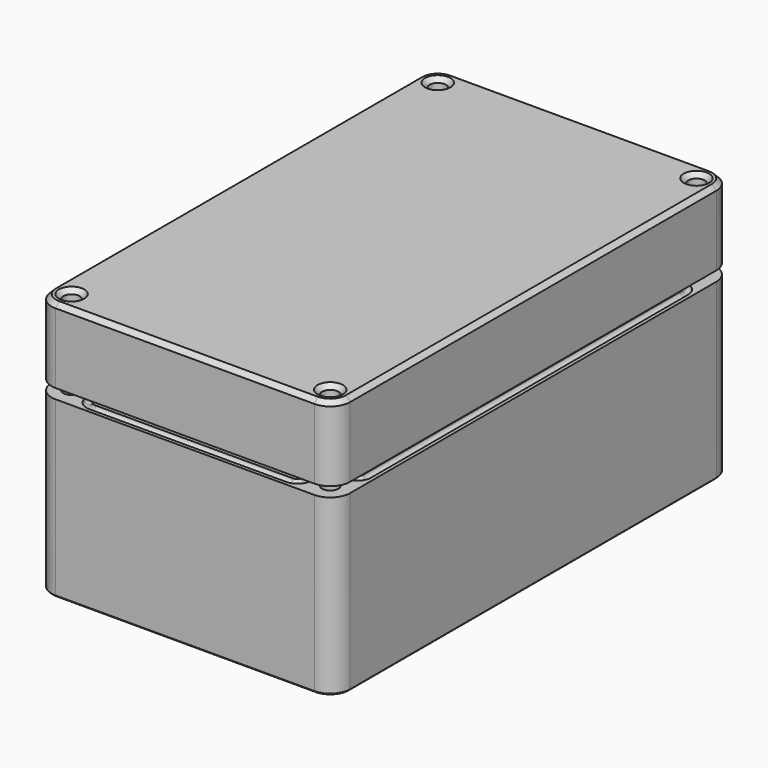
from build123d import *

# Parameters (mm, degrees)
SKETCH_R                = 1.65
PAD_DEPTH               = 35
POCKET_DEPTH            = 32
SKETCH004_R             = 0.8
POCKET002_DEPTH         = 32
SKETCH010_R             = 2.5
SKETCH010_R_2           = 1
PAD002_DEPTH            = 3
FILLET_R                = 0.6
CHAMFER001_SIZE         = 0.3
SKETCH005_R             = 1.65
PAD001_DEPTH            = 15
POCKET001_DEPTH         = 12
SKETCH008_R             = 0.8
CHAMFER_SIZE            = 0.9
BODY001_PLACEMENT_ANGLE = 180


with BuildPart() as bottom:
    # Sketch → Pad (new body)
    with BuildSketch(Plane.XY):
        with BuildLine():
            Line((-30, 46), (-30, -46))
            ThreePointArc((-30, -46), (-28.828427, -48.828427), (-26, -50))
            Line((-26, -50), (26, -50))
            ThreePointArc((26, -50), (28.828427, -48.828427), (30, -46))
            Line((30, 46), (30, -46))
            ThreePointArc((30, 46), (28.828427, 48.828427), (26, 50))
            Line((-26, 50), (26, 50))
            ThreePointArc((-26, 50), (-28.828427, 48.828427), (-30, 46))
        make_face()
        with Locations((-26, 46)):
            Circle(SKETCH_R, mode=Mode.SUBTRACT)
        with Locations((26, -46)):
            Circle(SKETCH_R, mode=Mode.SUBTRACT)
        with Locations((-26, -46)):
            Circle(SKETCH_R, mode=Mode.SUBTRACT)
        with Locations((26, 46)):
            Circle(SKETCH_R, mode=Mode.SUBTRACT)
    extrude(amount=PAD_DEPTH)

    # Sketch001 (on Face14 of Pad) → Pocket (cut)
    with BuildSketch(Plane.XY.offset(35)):
        with BuildLine():
            ThreePointArc((-23, 39), (-20.171573, 40.171573), (-19, 43))
            Line((-19, 43), (-19, 47))
            Line((-19, 47), (19, 47))
            Line((19, 43), (19, 47))
            ThreePointArc((19, 43), (20.171573, 40.171573), (23, 39))
            Line((23, 39), (27, 39))
            Line((27, -39), (27, 39))
            Line((23, -39), (27, -39))
            ThreePointArc((23, -39), (20.171573, -40.171573), (19, -43))
            Line((19, -47), (19, -43))
            Line((-19, -47), (19, -47))
            Line((-19, -43), (-19, -47))
            ThreePointArc((-19, -43), (-20.171573, -40.171573), (-23, -39))
            Line((-23, -39), (-27, -39))
            Line((-27, 39), (-27, -39))
            Line((-23, 39), (-27, 39))
        make_face()
    extrude(amount=-POCKET_DEPTH, mode=Mode.SUBTRACT)

    # SubtractivePipe: sweep along a path in Sketch003
    with BuildLine(Plane.XY) as subtractivepipe_path:
        ThreePointArc((25.085786, -42.257359), (23.292635, -43.292635), (22.257359, -45.085786))
        Line((22.257359, -45.085786), (21.739721, -47.017638))
        ThreePointArc((21.739721, -47.017638), (21.025392, -48.086707), (19.80787, -48.5))
        Line((19.80787, -48.5), (-19.80787, -48.5))
        ThreePointArc((-19.80787, -48.5), (-21.025392, -48.086707), (-21.739721, -47.017638))
        Line((-21.739721, -47.017638), (-22.257359, -45.085786))
        ThreePointArc((-22.257359, -45.085786), (-23.292635, -43.292635), (-25.085786, -42.257359))
        Line((-25.085786, -42.257359), (-27.017638, -41.739721))
        ThreePointArc((-27.017638, -41.739721), (-28.086707, -41.025392), (-28.5, -39.80787))
        Line((-28.5, -39.80787), (-28.5, 39.80787))
        ThreePointArc((-28.5, 39.80787), (-28.086707, 41.025392), (-27.017638, 41.739721))
        Line((-27.017638, 41.739721), (-25.085786, 42.257359))
        ThreePointArc((-25.085786, 42.257359), (-23.292635, 43.292635), (-22.257359, 45.085786))
        Line((-22.257359, 45.085786), (-21.739721, 47.017638))
        ThreePointArc((-21.739721, 47.017638), (-21.025392, 48.086707), (-19.80787, 48.5))
        Line((-19.80787, 48.5), (19.80787, 48.5))
        ThreePointArc((19.80787, 48.5), (21.025392, 48.086707), (21.739721, 47.017638))
        Line((21.739721, 47.017638), (22.257359, 45.085786))
        ThreePointArc((22.257359, 45.085786), (23.292635, 43.292635), (25.085786, 42.257359))
        Line((25.085786, 42.257359), (27.017638, 41.739721))
        ThreePointArc((27.017638, 41.739721), (28.086707, 41.025392), (28.5, 39.80787))
        Line((28.5, 39.80787), (28.5, -39.80787))
        ThreePointArc((28.5, -39.80787), (28.086707, -41.025392), (27.017638, -41.739721))
        Line((27.017638, -41.739721), (25.085786, -42.257359))
    # Sketch004 → SubtractivePipe (sweep, cut)
    with BuildSketch(Plane.XZ):
        with Locations((28.5, 35)):
            Circle(SKETCH004_R)
    sweep(path=subtractivepipe_path.line, mode=Mode.SUBTRACT)

    # Sketch009 (on Face4 of SubtractivePipe) → Pocket002 (cut)
    with BuildSketch(Plane(origin=(0, 0, 0), x_dir=(1, 0, 0), z_dir=(0, 0, -1))):
        Polygon((-25.158838, 42.860741), (-22.860741, 45.158838), (-23.701903, 48.298097), (-26.841162, 49.139259), (-29.139259, 46.841162), (-28.298097, 43.701903), align=None)
        Polygon((28.298097, 43.701903), (29.139259, 46.841162), (26.841162, 49.139259), (23.701903, 48.298097), (22.860741, 45.158838), (25.158838, 42.860741), align=None)
        Polygon((-22.860741, -45.158838), (-25.158838, -42.860741), (-28.298097, -43.701903), (-29.139259, -46.841162), (-26.841162, -49.139259), (-23.701903, -48.298097), align=None)
        Polygon((29.139259, -46.841162), (28.298097, -43.701903), (25.158838, -42.860741), (22.860741, -45.158838), (23.701903, -48.298097), (26.841162, -49.139259), align=None)
    extrude(amount=-POCKET002_DEPTH, mode=Mode.SUBTRACT)

    # Sketch010 (on Face84 of Pocket002) → Pad002 (join)
    with BuildSketch(Plane.XY.offset(3)):
        with Locations((-19, 35)):
            Circle(SKETCH010_R)
        with Locations((-19, 35)):
            Circle(SKETCH010_R_2, mode=Mode.SUBTRACT)
        with Locations((19, 35)):
            Circle(SKETCH010_R)
        with Locations((19, 35)):
            Circle(SKETCH010_R_2, mode=Mode.SUBTRACT)
        with Locations((-19, -35)):
            Circle(SKETCH010_R)
        with Locations((-19, -35)):
            Circle(SKETCH010_R_2, mode=Mode.SUBTRACT)
        with Locations((19, -35)):
            Circle(SKETCH010_R)
        with Locations((19, -35)):
            Circle(SKETCH010_R_2, mode=Mode.SUBTRACT)
    extrude(amount=PAD002_DEPTH)

    # Fillet
    fillet_edges = [bottom.edges().sort_by_distance(p)[0] for p in [
        (16.5, -35, 3),
        (16.5, -35, 6),
        (-21.5, -35, 6),
        (-21.5, -35, 3),
        (-21.5, 35, 3),
        (-21.5, 35, 6),
        (16.5, 35, 6),
        (16.5, 35, 3),
    ]]
    fillet(fillet_edges, radius=FILLET_R)

    # Chamfer001
    chamfer001_edges = [bottom.edges().sort_by_distance(p)[0] for p in [
        (-28.828427, 48.828427, 0),
        (0, 50, 0),
        (-30, 0, 0),
        (28.828427, 48.828427, 0),
        (-28.828427, -48.828427, 0),
        (30, 0, 0),
        (0, -50, 0),
        (28.828427, -48.828427, 0),
        (-26.728468, -43.281322, 0),
        (-28.718678, -45.271532, 0),
        (-27.99021, -47.99021, 0),
        (-25.271532, -48.718678, 0),
        (-23.281322, -46.728468, 0),
        (-24.00979, -44.00979, 0),
        (26.728468, -43.281322, 0),
        (24.00979, -44.00979, 0),
        (23.281322, -46.728468, 0),
        (25.271532, -48.718678, 0),
        (27.99021, -47.99021, 0),
        (28.718678, -45.271532, 0),
        (-23.281322, 46.728468, 0),
        (-25.271532, 48.718678, 0),
        (-27.99021, 47.99021, 0),
        (-28.718678, 45.271532, 0),
        (-26.728468, 43.281322, 0),
        (-24.00979, 44.00979, 0),
        (26.728468, 43.281322, 0),
        (28.718678, 45.271532, 0),
        (27.99021, 47.99021, 0),
        (25.271532, 48.718678, 0),
        (23.281322, 46.728468, 0),
        (24.00979, 44.00979, 0),
    ]]
    chamfer(chamfer001_edges, length=CHAMFER001_SIZE)


with BuildPart() as cover:
    # Sketch005 → Pad001 (new body)
    with BuildSketch(Plane.XY):
        with BuildLine():
            Line((-30, 46), (-30, -46))
            ThreePointArc((-30, -46), (-28.828427, -48.828427), (-26, -50))
            Line((-26, -50), (26, -50))
            ThreePointArc((26, -50), (28.828427, -48.828427), (30, -46))
            Line((30, 46), (30, -46))
            ThreePointArc((30, 46), (28.828427, 48.828427), (26, 50))
            Line((-26, 50), (26, 50))
            ThreePointArc((-26, 50), (-28.828427, 48.828427), (-30, 46))
        make_face()
        with Locations((-26, 46)):
            Circle(SKETCH005_R, mode=Mode.SUBTRACT)
        with Locations((26, -46)):
            Circle(SKETCH005_R, mode=Mode.SUBTRACT)
        with Locations((-26, -46)):
            Circle(SKETCH005_R, mode=Mode.SUBTRACT)
        with Locations((26, 46)):
            Circle(SKETCH005_R, mode=Mode.SUBTRACT)
    extrude(amount=PAD001_DEPTH)

    # Sketch006 (on Face14 of Pad001) → Pocket001 (cut)
    with BuildSketch(Plane.XY.offset(15)):
        with BuildLine():
            ThreePointArc((-23, 39), (-20.171573, 40.171573), (-19, 43))
            Line((-19, 43), (-19, 47))
            Line((-19, 47), (19, 47))
            Line((19, 43), (19, 47))
            ThreePointArc((19, 43), (20.171573, 40.171573), (23, 39))
            Line((23, 39), (27, 39))
            Line((27, -39), (27, 39))
            Line((23, -39), (27, -39))
            ThreePointArc((23, -39), (20.171573, -40.171573), (19, -43))
            Line((19, -47), (19, -43))
            Line((-19, -47), (19, -47))
            Line((-19, -43), (-19, -47))
            ThreePointArc((-19, -43), (-20.171573, -40.171573), (-23, -39))
            Line((-23, -39), (-27, -39))
            Line((-27, 39), (-27, -39))
            Line((-23, 39), (-27, 39))
        make_face()
    extrude(amount=-POCKET001_DEPTH, mode=Mode.SUBTRACT)

    # SubtractivePipe001: sweep along a path in Sketch007
    with BuildLine(Plane.XY) as subtractivepipe001_path:
        ThreePointArc((25.085786, -42.257359), (23.292635, -43.292635), (22.257359, -45.085786))
        Line((22.257359, -45.085786), (21.739721, -47.017638))
        ThreePointArc((21.739721, -47.017638), (21.025392, -48.086707), (19.80787, -48.5))
        Line((19.80787, -48.5), (-19.80787, -48.5))
        ThreePointArc((-19.80787, -48.5), (-21.025392, -48.086707), (-21.739721, -47.017638))
        Line((-21.739721, -47.017638), (-22.257359, -45.085786))
        ThreePointArc((-22.257359, -45.085786), (-23.292635, -43.292635), (-25.085786, -42.257359))
        Line((-25.085786, -42.257359), (-27.017638, -41.739721))
        ThreePointArc((-27.017638, -41.739721), (-28.086707, -41.025392), (-28.5, -39.80787))
        Line((-28.5, -39.80787), (-28.5, 39.80787))
        ThreePointArc((-28.5, 39.80787), (-28.086707, 41.025392), (-27.017638, 41.739721))
        Line((-27.017638, 41.739721), (-25.085786, 42.257359))
        ThreePointArc((-25.085786, 42.257359), (-23.292635, 43.292635), (-22.257359, 45.085786))
        Line((-22.257359, 45.085786), (-21.739721, 47.017638))
        ThreePointArc((-21.739721, 47.017638), (-21.025392, 48.086707), (-19.80787, 48.5))
        Line((-19.80787, 48.5), (19.80787, 48.5))
        ThreePointArc((19.80787, 48.5), (21.025392, 48.086707), (21.739721, 47.017638))
        Line((21.739721, 47.017638), (22.257359, 45.085786))
        ThreePointArc((22.257359, 45.085786), (23.292635, 43.292635), (25.085786, 42.257359))
        Line((25.085786, 42.257359), (27.017638, 41.739721))
        ThreePointArc((27.017638, 41.739721), (28.086707, 41.025392), (28.5, 39.80787))
        Line((28.5, 39.80787), (28.5, -39.80787))
        ThreePointArc((28.5, -39.80787), (28.086707, -41.025392), (27.017638, -41.739721))
        Line((27.017638, -41.739721), (25.085786, -42.257359))
    # Sketch008 → SubtractivePipe001 (sweep, cut)
    with BuildSketch(Plane.XZ):
        with Locations((28.5, 15)):
            Circle(SKETCH008_R)
    sweep(path=subtractivepipe001_path.line, mode=Mode.SUBTRACT)

    # Chamfer
    chamfer_edges = [cover.edges().sort_by_distance(p)[0] for p in [
        (-28.828427, 48.828427, 0),
        (-30, 0, 0),
        (-28.828427, -48.828427, 0),
        (0, -50, 0),
        (28.828427, -48.828427, 0),
        (30, 0, 0),
        (28.828427, 48.828427, 0),
        (0, 50, 0),
        (24.35, 46, 0),
        (-27.65, -46, 0),
        (24.35, -46, 0),
        (-27.65, 46, 0),
    ]]
    chamfer(chamfer_edges, length=CHAMFER_SIZE)


with BuildPart() as cover_1:
    # Body001 placement: moved
    add(cover.part.moved(Location((0, 0, 52))).rotate(Axis((0, 0, 52), (1, 0, 0)), BODY001_PLACEMENT_ANGLE))


solid = Compound([bottom.part, cover_1.part])
